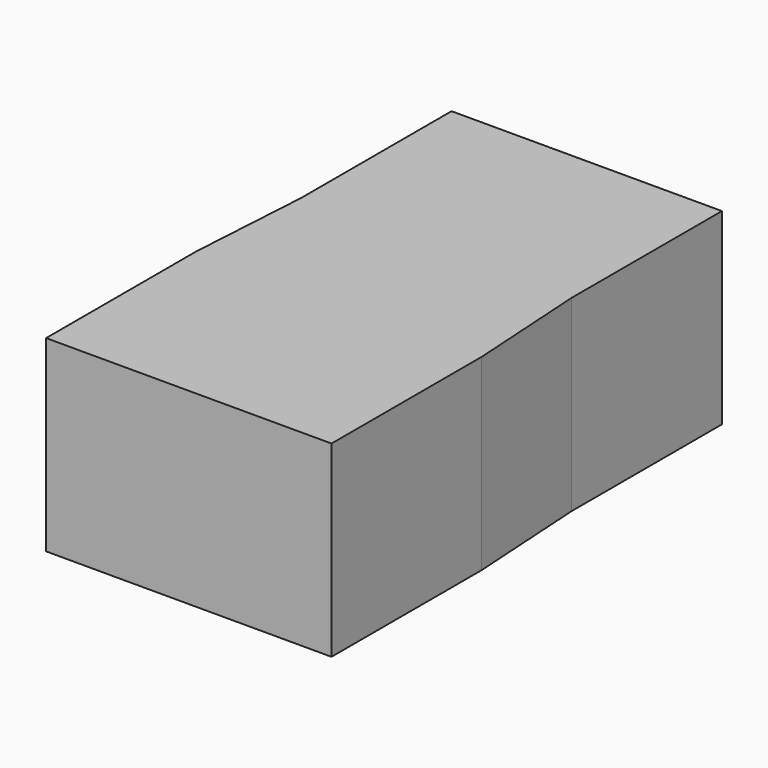
from build123d import *

# Parameters (mm, degrees)
F1_DEPTH = 50
F2_DEPTH = 50
F3_DEPTH = 50


with BuildPart() as f1:
    # F0 (on Top) → F1 (new body)
    with BuildSketch(Plane.XY):
        Polygon((-38, -32.4384031666), (0, -32.4384031666), (38, -32.4384031666), (36, 0), (0, 0), (-36, 0), align=None)
    extrude(amount=F1_DEPTH)

    # F2 (add): a face of the model
    f2_faces = [f1.faces().sort_by_distance(p)[0] for p in [
        (0, 0, 25),
    ]]
    extrude(f2_faces, amount=F2_DEPTH)

    # F3 (add): a face of the model
    f3_faces = [f1.faces().sort_by_distance(p)[0] for p in [
        (0, -32.4384031666, 25),
    ]]
    extrude(f3_faces, amount=F3_DEPTH)


solid = f1.part
